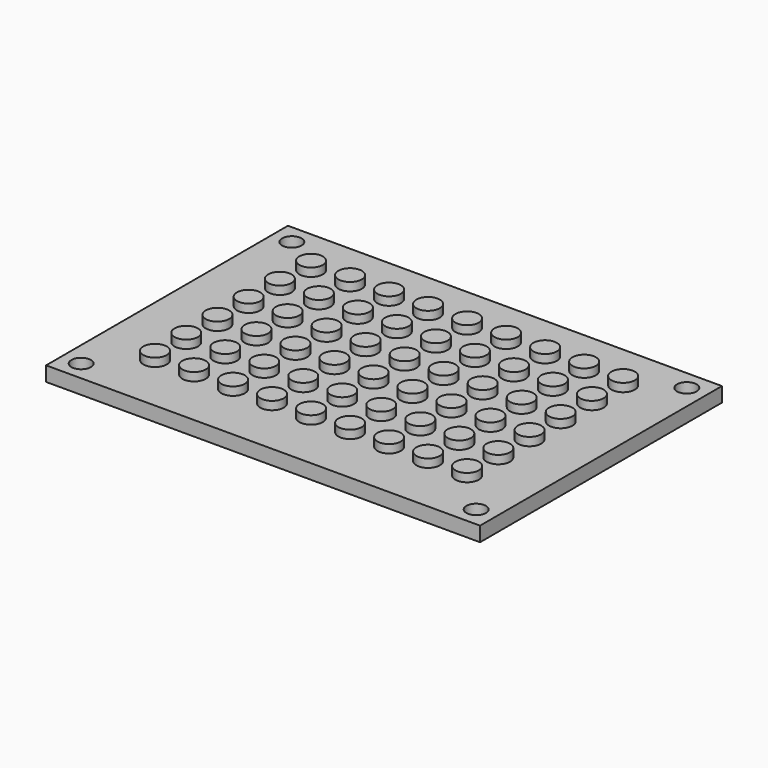
from build123d import *

# Parameters (mm, degrees)
F0_W     = 89
F0_H     = 62
F0_R     = 2
F1_DEPTH = 3
F2_R     = 2.4
F3_DEPTH = 1.7


with BuildPart() as f1:
    # F0 (on Top) → F1 (new body)
    with BuildSketch(Plane.XY):
        Rectangle(F0_W, F0_H)
        with Locations((-40.5, -27)):
            Circle(F0_R, mode=Mode.SUBTRACT)
        with Locations((40.5, -27)):
            Circle(F0_R, mode=Mode.SUBTRACT)
        with Locations((-40.5, 27)):
            Circle(F0_R, mode=Mode.SUBTRACT)
        with Locations((40.5, 27)):
            Circle(F0_R, mode=Mode.SUBTRACT)
    extrude(amount=F1_DEPTH)

    # F2 (on face) → F3 (join)
    with BuildSketch(Plane.XY.offset(3)):
        with Locations((16, 21.304145)):
            Circle(F2_R)
        with Locations((24, 21.304145)):
            Circle(F2_R)
        with Locations((0, -10.695855)):
            Circle(F2_R)
        with Locations((8, -18.695855)):
            Circle(F2_R)
        with Locations((24, -18.695855)):
            Circle(F2_R)
        with Locations((0, -2.695855)):
            Circle(F2_R)
        with Locations((-8, -10.695855)):
            Circle(F2_R)
        with Locations((-24, 13.304145)):
            Circle(F2_R)
        with Locations((32, -18.695855)):
            Circle(F2_R)
        with Locations((-24, -18.695855)):
            Circle(F2_R)
        with Locations((8, 13.304145)):
            Circle(F2_R)
        with Locations((32, 21.304145)):
            Circle(F2_R)
        with Locations((16, -10.695855)):
            Circle(F2_R)
        with Locations((16, -18.695855)):
            Circle(F2_R)
        with Locations((24, -10.695855)):
            Circle(F2_R)
        with Locations((-8, -18.695855)):
            Circle(F2_R)
        with Locations((32, 13.304145)):
            Circle(F2_R)
        with Locations((-32, 21.304145)):
            Circle(F2_R)
        with Locations((-16, -18.695855)):
            Circle(F2_R)
        with Locations((0, 21.304145)):
            Circle(F2_R)
        with Locations((-16, 21.304145)):
            Circle(F2_R)
        with Locations((-16, -10.695855)):
            Circle(F2_R)
        with Locations((-8, 21.304145)):
            Circle(F2_R)
        with Locations((-32, -10.695855)):
            Circle(F2_R)
        with Locations((8, 21.304145)):
            Circle(F2_R)
        with Locations((-32, -18.695855)):
            Circle(F2_R)
        with Locations((-8, 13.304145)):
            Circle(F2_R)
        with Locations((-24, 21.304145)):
            Circle(F2_R)
        with Locations((-24, -10.695855)):
            Circle(F2_R)
        with Locations((32, -10.695855)):
            Circle(F2_R)
        with Locations((0, -18.695855)):
            Circle(F2_R)
        with Locations((8, -10.695855)):
            Circle(F2_R)
        with Locations((-16, -2.695855)):
            Circle(F2_R)
        with Locations((-24, -2.695855)):
            Circle(F2_R)
        with Locations((16, -2.695855)):
            Circle(F2_R)
        with Locations((24, -2.695855)):
            Circle(F2_R)
        with Locations((-32, -2.695855)):
            Circle(F2_R)
        with Locations((8, -2.695855)):
            Circle(F2_R)
        with Locations((32, -2.695855)):
            Circle(F2_R)
        with Locations((-8, -2.695855)):
            Circle(F2_R)
        with Locations((0, 5.304145)):
            Circle(F2_R)
        with Locations((-16, 5.304145)):
            Circle(F2_R)
        with Locations((-24, 5.304145)):
            Circle(F2_R)
        with Locations((16, 5.304145)):
            Circle(F2_R)
        with Locations((24, 5.304145)):
            Circle(F2_R)
        with Locations((-32, 5.304145)):
            Circle(F2_R)
        with Locations((8, 5.304145)):
            Circle(F2_R)
        with Locations((32, 5.304145)):
            Circle(F2_R)
        with Locations((16, 13.304145)):
            Circle(F2_R)
        with Locations((-8, 5.304145)):
            Circle(F2_R)
        with Locations((0, 13.304145)):
            Circle(F2_R)
        with Locations((-16, 13.304145)):
            Circle(F2_R)
        with Locations((24, 13.304145)):
            Circle(F2_R)
        with Locations((-32, 13.304145)):
            Circle(F2_R)
    extrude(amount=F3_DEPTH)


solid = f1.part
